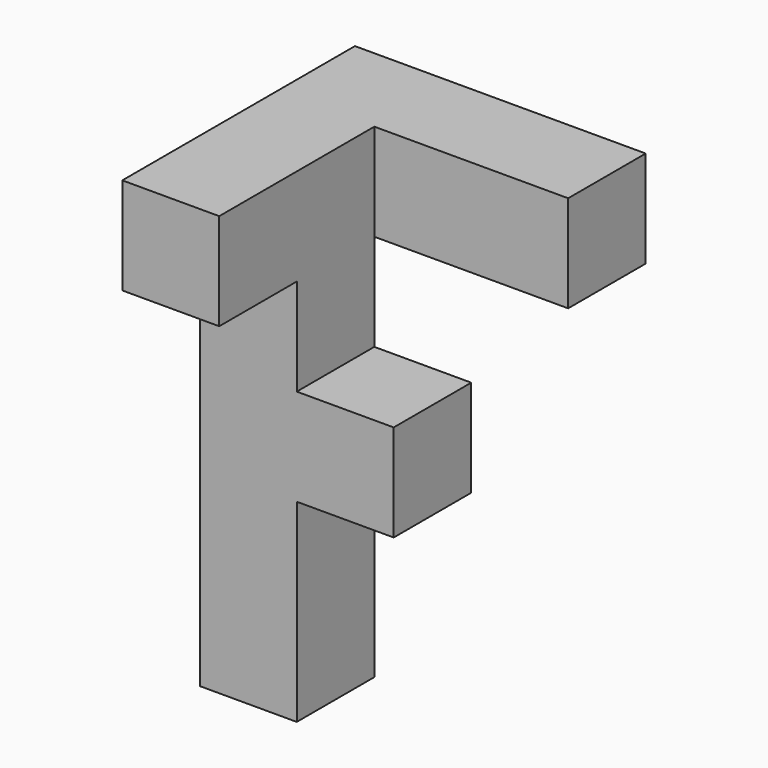
from build123d import *

# Parameters (mm, degrees)
F0_W          = 12.7
F0_H          = 12.7
F1_DEPTH      = 12.7
F2_W          = 12.7
F2_H          = 12.7
F3_DEPTH      = 12.7
F3_DEPTH_BACK = 25.4
F4_W          = 12.7
F4_H          = 12.7
F5_DEPTH      = 25.4


with BuildPart() as f1:
    # F0 (on Front) → F1 (new body)
    with BuildSketch(Plane.XZ):
        Polygon((0, 63.5), (0, 0), (12.7, 0), (12.7, 25.4), (12.7, 38.1), (12.7, 63.5), align=None)
        with Locations((19.05, 31.75)):
            Rectangle(F0_W, F0_H)
    extrude(amount=F1_DEPTH)

    # F2 (on face) → F3 (join, two sides)
    with BuildSketch(Plane.XZ.offset(12.7)) as f3_sk:
        with Locations((6.35, 57.15)):
            Rectangle(F2_W, F2_H)
    extrude(amount=F3_DEPTH)
    extrude(f3_sk.sketch, amount=-F3_DEPTH_BACK)

    # F4 (on face) → F5 (join)
    with BuildSketch(Plane.YZ.offset(12.7)):
        with Locations((6.35, 57.15)):
            Rectangle(F4_W, F4_H)
    extrude(amount=F5_DEPTH)


solid = f1.part
